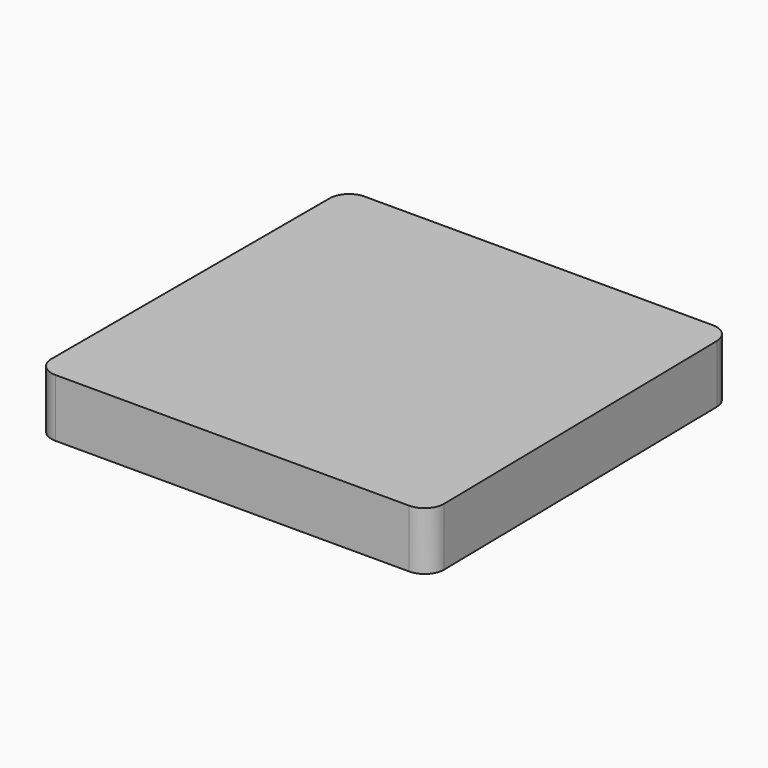
from build123d import *

# Parameters (mm, degrees)
F1_DEPTH = 19.05


with BuildPart() as f1:
    # F0 (on Top) → F1 (new body)
    with BuildSketch(Plane.XY):
        with BuildLine():
            ThreePointArc((0, 6.35), (1.859872, 1.859872), (6.35, 0))
            Line((6.35, 0), (122.622273, 0))
            ThreePointArc((122.622273, 0), (127.148969, 1.89674), (128.971424, 6.453849))
            Line((128.971424, 6.453849), (127.102165, 120.736864))
            ThreePointArc((127.102165, 120.736864), (125.206274, 125.159711), (120.753014, 126.983015))
            Line((120.753014, 126.983015), (6.35, 126.983015))
            ThreePointArc((6.35, 126.983015), (1.859872, 125.123143), (0, 120.633015))
            Line((0, 120.633015), (0, 6.35))
        make_face()
        with BuildLine():
            ThreePointArc((0, 6.35), (1.859872, 1.859872), (6.35, 0))
            Line((6.35, 0), (122.622273, 0))
            ThreePointArc((122.622273, 0), (127.148969, 1.89674), (128.971424, 6.453849))
            Line((128.971424, 6.453849), (127.102165, 120.736864))
            ThreePointArc((127.102165, 120.736864), (125.206274, 125.159711), (120.753014, 126.983015))
            Line((120.753014, 126.983015), (6.35, 126.983015))
            ThreePointArc((6.35, 126.983015), (1.859872, 125.123143), (0, 120.633015))
            Line((0, 120.633015), (0, 6.35))
        make_face()
    extrude(amount=F1_DEPTH)


solid = f1.part
